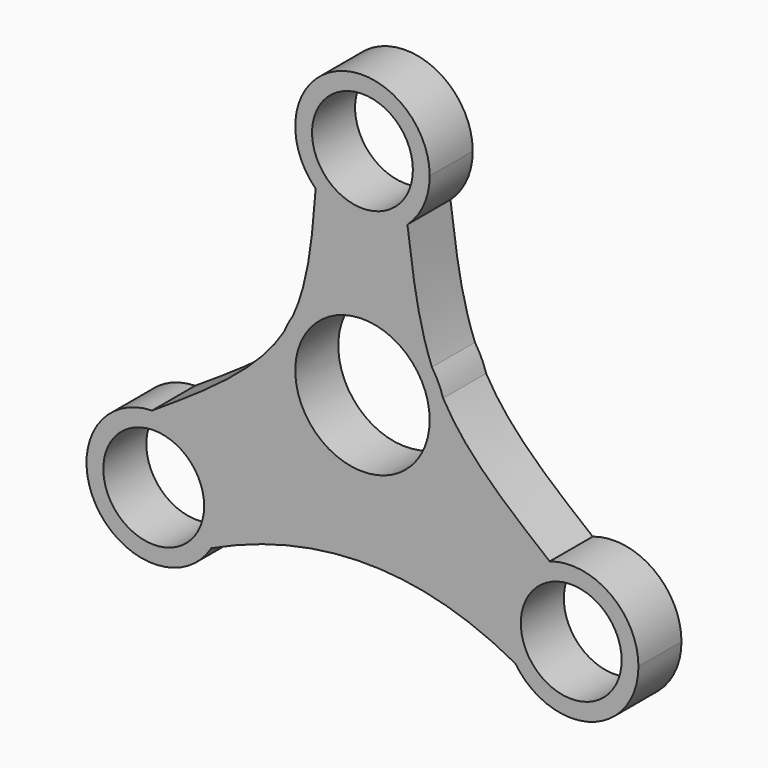
from build123d import *

# Parameters (mm, degrees)
F0_R     = 7.5
F0_R_2   = 10
F1_DEPTH = 8


with BuildPart() as f1:
    # F0 (on Front) → F1 (new body)
    with BuildSketch(Plane.XZ):
        with BuildLine():
            ThreePointArc((22.7435485597, -27.739552218), (33.9608059325, -31.7496446171), (41.0561911335, -22.1807777631))
            ThreePointArc((41.0561911335, -22.1807777631), (36.8887202324, -14.0578716139), (27.8598702715, -12.7053604664))
            ThreePointArc((27.8598702715, -12.7053604664), (21.5893653588, -18.9590996674), (22.7435485597, -27.739552218))
        make_face()
        with Locations((31.0561911335, -22.1807777631)):
            Circle(F0_R, mode=Mode.SUBTRACT)
        with BuildLine():
            ThreePointArc((22.7435485597, -27.739552218), (21.5893653588, -18.9590996674), (27.8598702715, -12.7053604664))
            add(Edge.make_bspline(
                [(11.9986669392, 3.5045672604), (15.5273763643, -2.7914321935), (21.7230020158, -7.7404445524), (27.8598702715, -12.7053604664)],
                knots=[0.4944180295, 0.4944180295, 0.4944180295, 0.4944180295, 1, 1, 1, 1], degree=3))
            ThreePointArc((11.9986669392, 3.5045672604), (12.3740320175, 1.7701219252), (12.5, 0))
            ThreePointArc((12.5, 0), (-2.3280431317, -12.2812953379), (-11.6328344283, 4.5746216415))
            add(Edge.make_bspline(
                [(-11.6328344283, 4.5746216415), (-15.6447194127, -2.0307472706), (-23.4977410769, -7.092086294), (-31.2951420401, -12.1836330475)],
                knots=[0.4726235286, 0.4726235286, 0.4726235286, 0.4726235286, 1, 1, 1, 1], degree=3))
            ThreePointArc((-31.2951420401, -12.1836330475), (-24.0701160217, -15.0257267826), (-21.0561911335, -22.1807777631))
            ThreePointArc((-21.0561911335, -22.1807777631), (-21.4227873337, -24.8635992686), (-22.4956973795, -27.3497183401))
            add(Edge.make_bspline(
                [(-22.4956973795, -27.3497183401), (-7.3487902991, -20.2318560332), (8.0745965242, -19.687499851), (22.7435485597, -27.739552218)],
                knots=[0, 0, 0, 0, 45.2409255387, 45.2409255387, 45.2409255387, 45.2409255387], degree=3))
        make_face()
        with BuildLine():
            add(Edge.make_bspline(
                [(10.3338702169, 7.0328604665), (10.8130265387, 5.8184440669), (11.3625077018, 4.6396162908), (11.9986669392, 3.5045672604)],
                knots=[0.4032712101, 0.4032712101, 0.4032712101, 0.4032712101, 0.4944180295, 0.4944180295, 0.4944180295, 0.4944180295], degree=3))
            ThreePointArc((11.9986669392, 3.5045672604), (11.3047674542, 5.3340634423), (10.3338702169, 7.0328604665))
        make_face()
        with BuildLine():
            ThreePointArc((12.5, 0), (12.3740320175, 1.7701219252), (11.9986669392, 3.5045672604))
            add(Edge.make_bspline(
                [(10.3338702169, 7.0328604665), (10.8130265387, 5.8184440669), (11.3625077018, 4.6396162908), (11.9986669392, 3.5045672604)],
                knots=[0.4032712101, 0.4032712101, 0.4032712101, 0.4032712101, 0.4944180295, 0.4944180295, 0.4944180295, 0.4944180295], degree=3))
            ThreePointArc((10.3338702169, 7.0328604665), (-0.0148861091, 12.4999911361), (-10.3505916022, 7.0082275565))
            add(Edge.make_bspline(
                [(-10.3505916022, 7.0082275565), (-10.7280195981, 6.1769339903), (-11.152947384, 5.3647317709), (-11.6328344283, 4.5746216415)],
                knots=[0.4095406792, 0.4095406792, 0.4095406792, 0.4095406792, 0.4726235286, 0.4726235286, 0.4726235286, 0.4726235286], degree=3))
            ThreePointArc((-11.6328344283, 4.5746216415), (-2.3280431317, -12.2812953379), (12.5, 0))
        make_face()
        Circle(F0_R_2, mode=Mode.SUBTRACT)
        with BuildLine():
            ThreePointArc((-31.2951420401, -12.1836330475), (-39.7057318505, -27.1992880386), (-22.4956973795, -27.3497183401))
            ThreePointArc((-22.4956973795, -27.3497183401), (-21.4227873337, -24.8635992686), (-21.0561911335, -22.1807777631))
            ThreePointArc((-21.0561911335, -22.1807777631), (-24.0701160217, -15.0257267826), (-31.2951420401, -12.1836330475))
        make_face()
        with Locations((-31.0561911335, -22.1807777631)):
            Circle(F0_R, mode=Mode.SUBTRACT)
        with BuildLine():
            ThreePointArc((-10.3505916022, 7.0082275565), (-0.0148861091, 12.4999911361), (10.3338702169, 7.0328604665))
            add(Edge.make_bspline(
                [(6.6874806628, 24.5327443474), (7.4705381958, 18.4756836195), (8.2138845616, 12.4059406688), (10.3338702169, 7.0328604665)],
                knots=[0, 0, 0, 0, 0.4032712101, 0.4032712101, 0.4032712101, 0.4032712101], degree=3))
            ThreePointArc((6.6874806628, 24.5327443474), (-0.1896085558, 21.9694329583), (-6.9645652748, 24.7916453622))
            add(Edge.make_bspline(
                [(-6.9645652748, 24.7916453622), (-7.451980761, 18.6065749255), (-7.9002882416, 12.4050752767), (-10.3505916022, 7.0082275565)],
                knots=[0, 0, 0, 0, 0.4095406792, 0.4095406792, 0.4095406792, 0.4095406792], degree=3))
        make_face()
        with BuildLine():
            ThreePointArc((-10.3505916022, 7.0082275565), (-11.0588590934, 5.8268032018), (-11.6328344283, 4.5746216415))
            add(Edge.make_bspline(
                [(-10.3505916022, 7.0082275565), (-10.7280195981, 6.1769339903), (-11.152947384, 5.3647317709), (-11.6328344283, 4.5746216415)],
                knots=[0.4095406792, 0.4095406792, 0.4095406792, 0.4095406792, 0.4726235286, 0.4726235286, 0.4726235286, 0.4726235286], degree=3))
        make_face()
        with BuildLine():
            ThreePointArc((-6.9645652748, 24.7916453622), (-0.1896085558, 21.9694329583), (6.6874806628, 24.5327443474))
            ThreePointArc((6.6874806628, 24.5327443474), (9.1344076608, 27.8979181988), (10, 31.9676352265))
            ThreePointArc((10, 31.9676352265), (-3.8957892173, 41.1775660826), (-6.9645652748, 24.7916453622))
        make_face()
        with Locations((0, 31.9676352265)):
            Circle(F0_R, mode=Mode.SUBTRACT)
    extrude(amount=F1_DEPTH)


solid = f1.part
